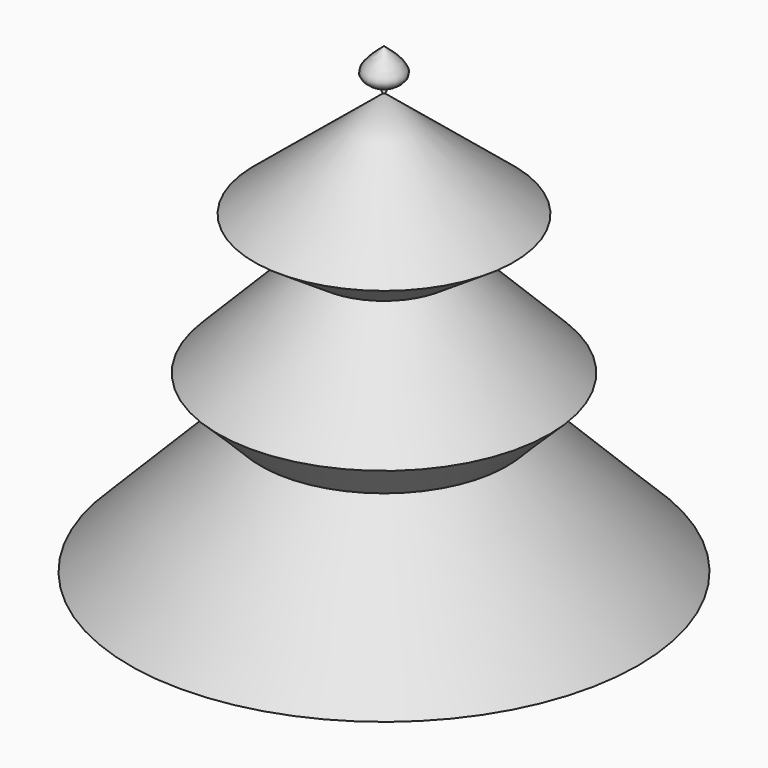
from build123d import *


with BuildPart() as f1:
    # F0 (on Right) → F1 (revolve)
    with BuildSketch(Plane.YZ):
        Polygon((12.9897355498, 37.0151433533), (0, 47.6779532356), (0, 5.5629422697), (25.4, 5.5629422697), (12.3090927451, 18.8490473593), (16.5654007445, 23.042822201), (6.8304821963, 32.9228976115), align=None)
    revolve(axis=Axis((0, 0, 26.6204477526), (0, 0, -1)))


with BuildPart() as f3:
    # F2 (on Front) → F3 (revolve)
    with BuildSketch(Plane.XZ):
        with BuildLine():
            Line((0, 51.7865270376), (0, 48.0089448392))
            add(Edge.make_bspline(
                [(0, 51.7865270376), (1.0221085545, 50.9204450995), (2.9462522711, 49.2900252073), (0.9403591418, 48.4178289145), (0, 48.0089448392)],
                knots=[0, 0, 0, 0, 0.5312017734, 1, 1, 1, 1], degree=3))
        make_face()
    revolve(axis=Axis((0, 0, 49.8977359384), (0, 0, 1)))


with BuildPart() as f5:
    # F4 (on Front) → F5 (revolve)
    with BuildSketch(Plane.XZ):
        with BuildLine():
            add(Edge.make_bspline(
                [(0, 48.072591424), (0.0938272351, 47.9925678422), (0.2814817053, 47.8325206786), (0.0938272351, 47.6724735151), (0, 47.5924499333)],
                knots=[0, 0, 0, 0, 0.5, 1, 1, 1, 1], degree=3))
            Line((0, 48.072591424), (0, 47.5924499333))
        make_face()
    revolve(axis=Axis((0, 0, 47.8325206786), (0, 0, -1)))


with BuildPart() as f7:
    # F6 (on Right) → F7 (revolve)
    with BuildSketch(Plane.YZ):
        Polygon((0, -1.5797003871), (0, 9.2366635799), (-2.436122275, 5.8656565379), (-2.436122275, -1.5797003871), align=None)
    revolve(axis=Axis((0, 0, 3.8284815964), (0, 0, -1)))


solid = Compound([f1.part, f3.part, f5.part, f7.part])
